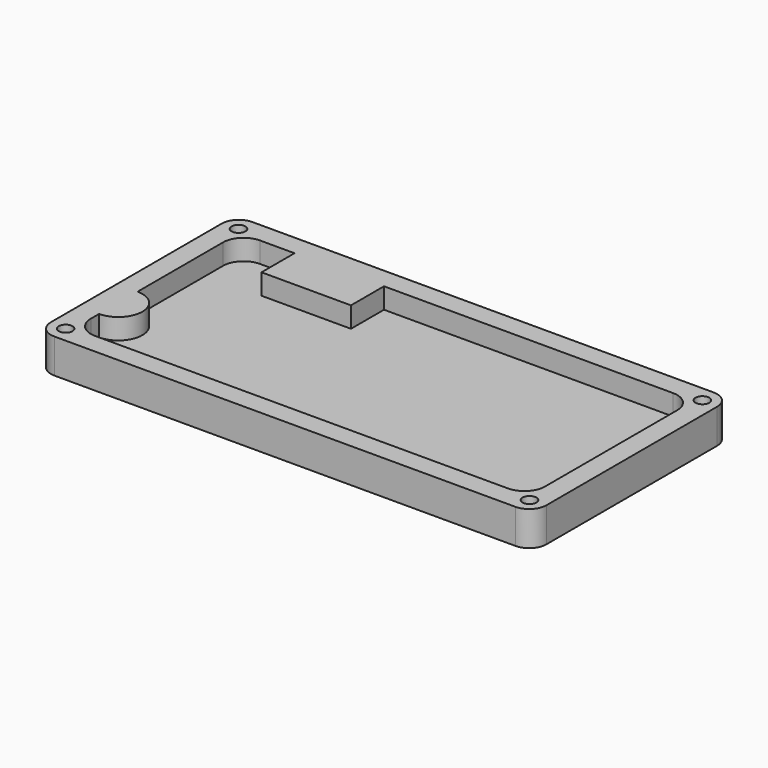
from build123d import *

# Parameters (mm, degrees)
PAD002_DEPTH    = 5
SKETCH012_R     = 1
POCKET008_DEPTH = 20.001
SKETCH013_R     = 2
POCKET009_DEPTH = 3
POCKET010_DEPTH = 3


with BuildPart() as part:
    # Sketch010 → Pad002 (new body)
    with BuildSketch(Plane.XY.offset(-20)):
        with BuildLine():
            Line((-33.5, 18), (33.5, 18))
            ThreePointArc((36, 15.5), (35.267767, 17.267767), (33.5, 18))
            Line((36, 15.5), (36, -15.5))
            ThreePointArc((33.5, -18), (35.267767, -17.267767), (36, -15.5))
            Line((33.5, -18), (-33.5, -18))
            ThreePointArc((-36, -15.5), (-35.267767, -17.267767), (-33.5, -18))
            Line((-36, -15.5), (-36, 15.5))
            ThreePointArc((-33.5, 18), (-35.267767, 17.267767), (-36, 15.5))
        make_face()
    extrude(amount=PAD002_DEPTH)

    # Sketch012 (on Pad) → Pocket008 (cut, through all)
    with BuildSketch(Plane.XY):
        with Locations((-33.7, 15.7)):
            Circle(SKETCH012_R)
        with Locations((33.7, 15.7)):
            Circle(SKETCH012_R)
        with Locations((33.7, -15.7)):
            Circle(SKETCH012_R)
        with Locations((-33.7, -15.7)):
            Circle(SKETCH012_R)
    extrude(amount=-POCKET008_DEPTH, mode=Mode.SUBTRACT)

    # Sketch013 (on Face4 of Pocket008) → Pocket009 (cut)
    with BuildSketch(Plane(origin=(0, 0, -20), x_dir=(1, 0, 0), z_dir=(0, 0, -1))):
        with Locations((-33.7, 15.7)):
            Circle(SKETCH013_R)
        with Locations((33.7, 15.7)):
            Circle(SKETCH013_R)
        with Locations((33.7, -15.7)):
            Circle(SKETCH013_R)
        with Locations((-33.7, -15.7)):
            Circle(SKETCH013_R)
    extrude(amount=-POCKET009_DEPTH, mode=Mode.SUBTRACT)

    # Sketch011 (on Face10 of Pad002) → Pocket010 (cut)
    with BuildSketch(Plane.XY.offset(-15)):
        with BuildLine():
            Line((33, 12), (33, -12))
            ThreePointArc((30, -15), (32.12132, -14.12132), (33, -12))
            Line((30, -15), (-30, -15))
            ThreePointArc((-33, -12), (-32.12132, -14.12132), (-30, -15))
            Line((-33, -10.5), (-33, -12))
            ThreePointArc((-33, -10.5), (-29.5, -7), (-33, -3.5))
            Line((-33, 12), (-33, -3.5))
            ThreePointArc((-30, 15), (-32.125281, 14.125281), (-33, 12))
            Line((-30, 15), (-25, 15))
            Line((-25, 15), (-25, 9))
            Line((-25, 9), (-12, 9))
            Line((-12, 9), (-12, 15))
            Line((-12, 15), (30, 15))
            ThreePointArc((33, 12), (32.12132, 14.12132), (30, 15))
        make_face()
    extrude(amount=-POCKET010_DEPTH, mode=Mode.SUBTRACT)


solid = part.part
